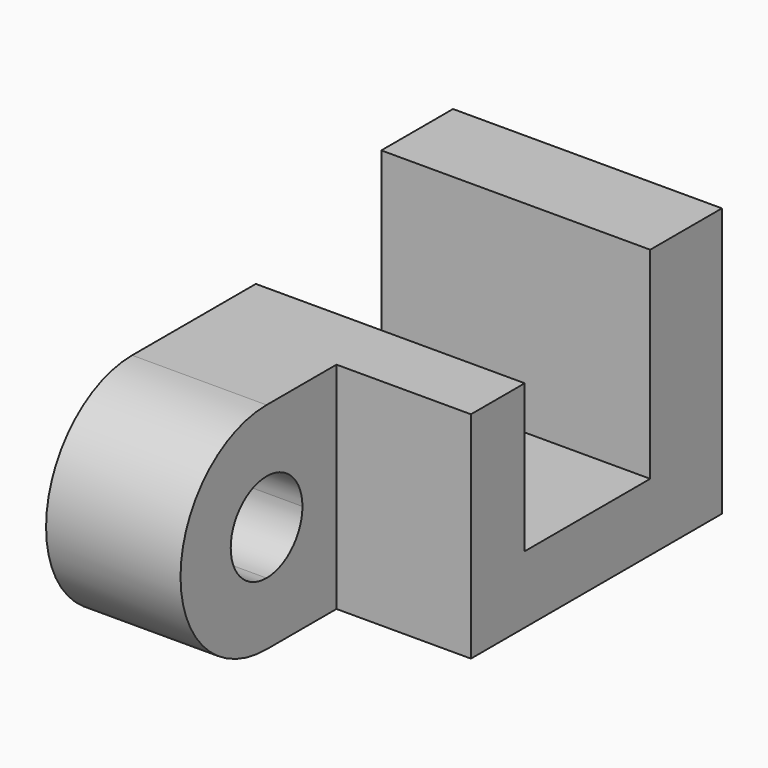
from build123d import *

# Parameters (mm, degrees)
F0_W      = 700
F0_H      = 600
F1_DEPTH  = 600
F3_DEPTH  = 600.001
F4_W      = 150
F4_H      = 120
F5_DEPTH  = 600.001
F6_W      = 300
F6_H      = 480
F7_DEPTH  = 195
F9_DEPTH  = 300
F11_DEPTH = 300.001


with BuildPart() as f1:
    # F0 (on Right) → F1 (new body)
    with BuildSketch(Plane.YZ):
        Rectangle(F0_W, F0_H)
    extrude(amount=F1_DEPTH)

    # F2 (on face) → F3 (cut, through all)
    with BuildSketch(Plane.YZ.offset(600)):
        Polygon((150, -150), (150, 300), (-200, 300), (-200, -150), (0, -150), align=None)
    extrude(amount=-F3_DEPTH, mode=Mode.SUBTRACT)

    # F4 (on face) → F5 (cut, through all)
    with BuildSketch(Plane.YZ.offset(600)):
        with Locations((-275, 240)):
            Rectangle(F4_W, F4_H)
    extrude(amount=-F5_DEPTH, mode=Mode.SUBTRACT)

    # F6 (on face) → F7 (join)
    with BuildSketch(Plane.XZ.offset(350)):
        with Locations((150, -60)):
            Rectangle(F6_W, F6_H)
    extrude(amount=F7_DEPTH)

    # F8 (on face) → F9 (join)
    with BuildSketch(Plane(origin=(0, 0, 0), x_dir=(0, -1, 0), z_dir=(-1, 0, 0))):
        with BuildLine():
            ThreePointArc((545, -300), (714.7056274848, -229.7056274848), (785, -60))
            ThreePointArc((785, -60), (714.7056274848, 109.7056274848), (545, 180))
            Line((545, 180), (545, -300))
        make_face()
    extrude(amount=-F9_DEPTH)

    # F10 (on face) → F11 (cut, through all)
    with BuildSketch(Plane.YZ.offset(300)):
        with BuildLine():
            ThreePointArc((-445, -60), (-474.2893218813, 10.7106781187), (-545, 40))
            Line((-545, 40), (-545, -160))
            ThreePointArc((-545, -160), (-474.2893218813, -130.7106781187), (-445, -60))
        make_face()
        with BuildLine():
            Line((-545, -160), (-545, 40))
            ThreePointArc((-545, 40), (-645, -60), (-545, -160))
        make_face()
    extrude(amount=-F11_DEPTH, mode=Mode.SUBTRACT)


solid = f1.part
